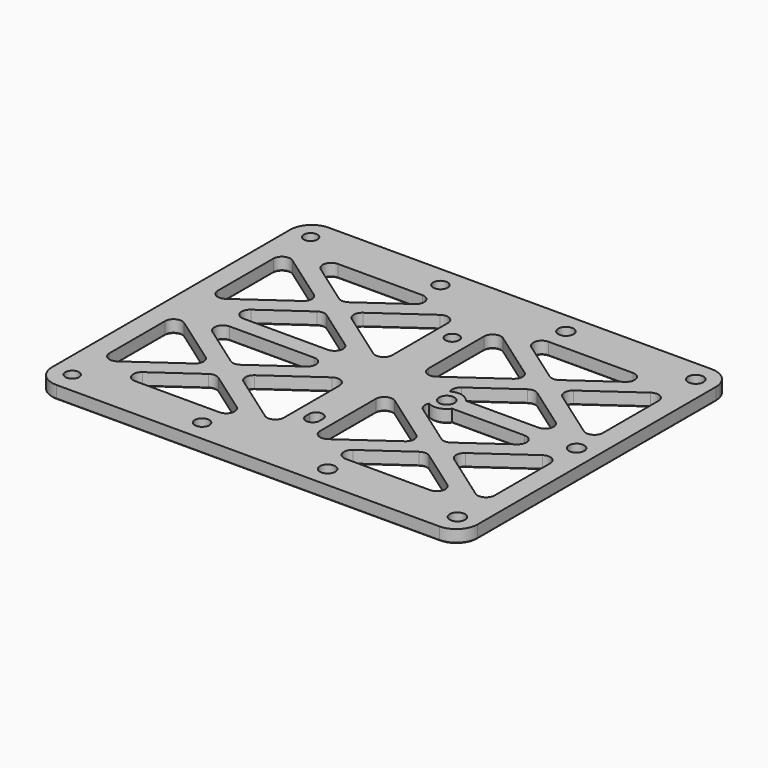
from build123d import *

# Parameters (mm, degrees)
F1_W     = 100
F1_H     = 80
F1_R     = 1.6
F1_R_2   = 1.7
F1_R_3   = 1.8
F2_DEPTH = 3
F4_DEPTH = 3.001
F5_R     = 3.5
F5_R_2   = 1.8
F6_DEPTH = 3
F7_R     = 5
F8_SIZE  = 0.2


with BuildPart() as f2:
    # F1 (on Top) → F2 (new body)
    with BuildSketch(Plane.XY):
        Rectangle(F1_W, F1_H)
        with Locations((-45.25, -35)):
            Circle(F1_R, mode=Mode.SUBTRACT)
        with Locations((-14.75, -35)):
            Circle(F1_R_2, mode=Mode.SUBTRACT)
        with Locations((14.75, -35)):
            Circle(F1_R_3, mode=Mode.SUBTRACT)
        with BuildLine():
            Line((-1.55, -21), (-1.55, -20))
            ThreePointArc((-1.55, -20), (0.05, -18.4), (1.65, -20))
            Line((1.65, -20), (1.65, -21))
            ThreePointArc((1.65, -21), (0.05, -22.6), (-1.55, -21))
        make_face(mode=Mode.SUBTRACT)
        with Locations((45.25, -35)):
            Circle(F1_R_3, mode=Mode.SUBTRACT)
        with Locations((-45.25, 35)):
            Circle(F1_R, mode=Mode.SUBTRACT)
        with Locations((-14.75, 35)):
            Circle(F1_R_2, mode=Mode.SUBTRACT)
        with Locations((14.75, 0)):
            Circle(F1_R_3, mode=Mode.SUBTRACT)
        with Locations((45.25, 0)):
            Circle(F1_R_3, mode=Mode.SUBTRACT)
        with Locations((0.05, 20)):
            Circle(F1_R, mode=Mode.SUBTRACT)
        with Locations((14.75, 35)):
            Circle(F1_R_3, mode=Mode.SUBTRACT)
        with Locations((45.25, 35)):
            Circle(F1_R_3, mode=Mode.SUBTRACT)
    extrude(amount=F2_DEPTH)

    # F3 (on Top) → F4 (cut, through all)
    with BuildSketch(Plane.XY):
        with BuildLine():
            ThreePointArc((-30.5197551181, 14.2676321857), (-29.6740215052, 15.9009322524), (-30.5197551181, 17.5342323191))
            Line((-30.5197551181, 17.5342323191), (-42.088946, 25.7102732269))
            ThreePointArc((-42.088946, 25.7102732269), (-44.1628501488, 25.8529986069), (-45.243212387, 24.0769731603))
            Line((-45.243212387, 24.0769731603), (-45.243212387, 7.7248913446))
            ThreePointArc((-45.243212387, 7.7248913446), (-44.1628501488, 5.948865898), (-42.088946, 6.0915912779))
            Line((-42.088946, 6.0915912779), (-30.5197551181, 14.2676321857))
        make_face()
        with BuildLine():
            ThreePointArc((-23.588946, 12.636173375), (-24.743212387, 13.0028733083), (-25.897478774, 12.636173375))
            Line((-25.897478774, 12.636173375), (-35.8066241584, 5.6333000667))
            ThreePointArc((-35.8066241584, 5.6333000667), (-36.5584795058, 3.3944424608), (-34.6523577714, 2))
            Line((-34.6523577714, 2), (-14.8340670026, 2))
            ThreePointArc((-14.8340670026, 2), (-12.9279452681, 3.3944424608), (-13.6798006156, 5.6333000667))
            Line((-13.6798006156, 5.6333000667), (-23.588946, 12.636173375))
        make_face()
        with BuildLine():
            ThreePointArc((-18.9666696558, 17.5342323191), (-19.8124032688, 15.9009322524), (-18.9666696558, 14.2676321857))
            Line((-18.9666696558, 14.2676321857), (-7.397478774, 6.0915912779))
            ThreePointArc((-7.397478774, 6.0915912779), (-5.3235746251, 5.9488658979), (-4.243212387, 7.7248913446))
            Line((-4.243212387, 7.7248913446), (-4.243212387, 24.0769731603))
            ThreePointArc((-4.243212387, 24.0769731603), (-5.3235746251, 25.8529986069), (-7.397478774, 25.7102732269))
            Line((-7.397478774, 25.7102732269), (-18.9666696558, 17.5342323191))
        make_face()
        with BuildLine():
            ThreePointArc((-13.6798006156, 26.1685644381), (-12.9279452681, 28.4074220441), (-14.8340670026, 29.8018645048))
            Line((-14.8340670026, 29.8018645048), (-34.6523577714, 29.8018645048))
            ThreePointArc((-34.6523577714, 29.8018645048), (-36.5584795058, 28.4074220441), (-35.8066241584, 26.1685644381))
            Line((-35.8066241584, 26.1685644381), (-25.897478774, 19.1656911299))
            ThreePointArc((-25.897478774, 19.1656911299), (-24.743212387, 18.7989911965), (-23.588946, 19.1656911299))
            Line((-23.588946, 19.1656911299), (-13.6798006156, 26.1685644381))
        make_face()
        with BuildLine():
            ThreePointArc((25.897478774, 12.636173375), (24.743212387, 13.0028733083), (23.588946, 12.636173375))
            Line((23.588946, 12.636173375), (13.6798006156, 5.6333000667))
            ThreePointArc((13.6798006156, 5.6333000667), (12.9279452681, 3.3944424608), (14.8340670026, 2))
            Line((14.8340670026, 2), (34.6523577714, 2))
            ThreePointArc((34.6523577714, 2), (36.5584795058, 3.3944424608), (35.8066241584, 5.6333000667))
            Line((35.8066241584, 5.6333000667), (25.897478774, 12.636173375))
        make_face()
        with BuildLine():
            ThreePointArc((30.5197551181, 17.5342323191), (29.6740215052, 15.9009322524), (30.5197551181, 14.2676321857))
            Line((30.5197551181, 14.2676321857), (42.088946, 6.0915912779))
            ThreePointArc((42.088946, 6.0915912779), (44.1628501488, 5.948865898), (45.243212387, 7.7248913446))
            Line((45.243212387, 7.7248913446), (45.243212387, 24.0769731603))
            ThreePointArc((45.243212387, 24.0769731603), (44.1628501488, 25.8529986069), (42.088946, 25.7102732269))
            Line((42.088946, 25.7102732269), (30.5197551181, 17.5342323191))
        make_face()
        with BuildLine():
            ThreePointArc((18.9666696558, 14.2676321857), (19.8124032688, 15.9009322524), (18.9666696558, 17.5342323191))
            Line((18.9666696558, 17.5342323191), (7.397478774, 25.7102732269))
            ThreePointArc((7.397478774, 25.7102732269), (5.3235746251, 25.8529986069), (4.243212387, 24.0769731603))
            Line((4.243212387, 24.0769731603), (4.243212387, 7.7248913446))
            ThreePointArc((4.243212387, 7.7248913446), (5.3235746251, 5.9488658979), (7.397478774, 6.0915912779))
            Line((7.397478774, 6.0915912779), (18.9666696558, 14.2676321857))
        make_face()
        with BuildLine():
            ThreePointArc((23.588946, 19.1656911299), (24.743212387, 18.7989911965), (25.897478774, 19.1656911299))
            Line((25.897478774, 19.1656911299), (35.8066241584, 26.1685644381))
            ThreePointArc((35.8066241584, 26.1685644381), (36.5584795058, 28.4074220441), (34.6523577714, 29.8018645048))
            Line((34.6523577714, 29.8018645048), (14.8340670026, 29.8018645048))
            ThreePointArc((14.8340670026, 29.8018645048), (12.9279452681, 28.4074220441), (13.6798006156, 26.1685644381))
            Line((13.6798006156, 26.1685644381), (23.588946, 19.1656911299))
        make_face()
        with BuildLine():
            Line((35.8066241584, -26.1685644381), (25.897478774, -19.1656911299))
            ThreePointArc((25.897478774, -19.1656911299), (24.743212387, -18.7989911965), (23.588946, -19.1656911299))
            Line((23.588946, -19.1656911299), (13.6798006156, -26.1685644381))
            ThreePointArc((13.6798006156, -26.1685644381), (12.9279452681, -28.4074220441), (14.8340670026, -29.8018645048))
            Line((14.8340670026, -29.8018645048), (34.6523577714, -29.8018645048))
            ThreePointArc((34.6523577714, -29.8018645048), (36.5584795058, -28.4074220441), (35.8066241584, -26.1685644381))
        make_face()
        with BuildLine():
            ThreePointArc((-18.9666696558, -14.2676321857), (-19.8124032688, -15.9009322524), (-18.9666696558, -17.5342323191))
            Line((-18.9666696558, -17.5342323191), (-7.397478774, -25.7102732269))
            ThreePointArc((-7.397478774, -25.7102732269), (-5.3235746251, -25.8529986069), (-4.243212387, -24.0769731603))
            Line((-4.243212387, -24.0769731603), (-4.243212387, -7.7248913446))
            ThreePointArc((-4.243212387, -7.7248913446), (-5.3235746251, -5.9488658979), (-7.397478774, -6.0915912779))
            Line((-7.397478774, -6.0915912779), (-18.9666696558, -14.2676321857))
        make_face()
        with BuildLine():
            Line((7.397478774, -25.7102732269), (18.9666696558, -17.5342323191))
            ThreePointArc((18.9666696558, -17.5342323191), (19.8124032688, -15.9009322524), (18.9666696558, -14.2676321857))
            Line((18.9666696558, -14.2676321857), (7.397478774, -6.0915912779))
            ThreePointArc((7.397478774, -6.0915912779), (5.3235746251, -5.9488658979), (4.243212387, -7.7248913446))
            Line((4.243212387, -7.7248913446), (4.243212387, -24.0769731603))
            ThreePointArc((4.243212387, -24.0769731603), (5.3235746251, -25.8529986069), (7.397478774, -25.7102732269))
        make_face()
        with BuildLine():
            ThreePointArc((-42.088946, -6.0915912779), (-44.1628501488, -5.948865898), (-45.243212387, -7.7248913446))
            Line((-45.243212387, -7.7248913446), (-45.243212387, -24.0769731603))
            ThreePointArc((-45.243212387, -24.0769731603), (-44.1628501488, -25.8529986069), (-42.088946, -25.7102732269))
            Line((-42.088946, -25.7102732269), (-30.5197551181, -17.5342323191))
            ThreePointArc((-30.5197551181, -17.5342323191), (-29.6740215052, -15.9009322524), (-30.5197551181, -14.2676321857))
            Line((-30.5197551181, -14.2676321857), (-42.088946, -6.0915912779))
        make_face()
        with BuildLine():
            ThreePointArc((-23.588946, -19.1656911299), (-24.743212387, -18.7989911965), (-25.897478774, -19.1656911299))
            Line((-25.897478774, -19.1656911299), (-35.8066241584, -26.1685644381))
            ThreePointArc((-35.8066241584, -26.1685644381), (-36.5584795058, -28.4074220441), (-34.6523577714, -29.8018645048))
            Line((-34.6523577714, -29.8018645048), (-14.8340670026, -29.8018645048))
            ThreePointArc((-14.8340670026, -29.8018645048), (-12.9279452681, -28.4074220441), (-13.6798006156, -26.1685644381))
            Line((-13.6798006156, -26.1685644381), (-23.588946, -19.1656911299))
        make_face()
        with BuildLine():
            ThreePointArc((-25.897478774, -12.636173375), (-24.743212387, -13.0028733083), (-23.588946, -12.636173375))
            Line((-23.588946, -12.636173375), (-13.6798006156, -5.6333000667))
            ThreePointArc((-13.6798006156, -5.6333000667), (-12.9279452681, -3.3944424608), (-14.8340670026, -2))
            Line((-14.8340670026, -2), (-34.6523577714, -2))
            ThreePointArc((-34.6523577714, -2), (-36.5584795058, -3.3944424608), (-35.8066241584, -5.6333000667))
            Line((-35.8066241584, -5.6333000667), (-25.897478774, -12.636173375))
        make_face()
        with BuildLine():
            Line((42.088946, -6.0915912779), (30.5197551181, -14.2676321857))
            ThreePointArc((30.5197551181, -14.2676321857), (29.6740215052, -15.9009322524), (30.5197551181, -17.5342323191))
            Line((30.5197551181, -17.5342323191), (42.088946, -25.7102732269))
            ThreePointArc((42.088946, -25.7102732269), (44.1628501488, -25.8529986069), (45.243212387, -24.0769731603))
            Line((45.243212387, -24.0769731603), (45.243212387, -7.7248913446))
            ThreePointArc((45.243212387, -7.7248913446), (44.1628501488, -5.948865898), (42.088946, -6.0915912779))
        make_face()
        with BuildLine():
            Line((13.6798006156, -5.6333000667), (23.588946, -12.636173375))
            ThreePointArc((23.588946, -12.636173375), (24.743212387, -13.0028733083), (25.897478774, -12.636173375))
            Line((25.897478774, -12.636173375), (35.8066241584, -5.6333000667))
            ThreePointArc((35.8066241584, -5.6333000667), (36.5584795058, -3.3944424608), (34.6523577714, -2))
            Line((34.6523577714, -2), (14.8340670026, -2))
            ThreePointArc((14.8340670026, -2), (12.9279452681, -3.3944424608), (13.6798006156, -5.6333000667))
        make_face()
    extrude(amount=F4_DEPTH, mode=Mode.SUBTRACT)

    # F5 (on Top) → F6 (join, through all)
    with BuildSketch(Plane.XY):
        with Locations((14.75, 0)):
            Circle(F5_R)
        with Locations((14.75, 0)):
            Circle(F5_R_2, mode=Mode.SUBTRACT)
    extrude(amount=F6_DEPTH)

    # F7
    f7_edges = [f2.edges().sort_by_distance(p)[0] for p in [
        (50, -40, 1.5),
        (50, 40, 1.5),
        (-50, -40, 1.5),
        (-50, 40, 1.5),
    ]]
    fillet(f7_edges, radius=F7_R)

    # F8 (call 1 of 29: OpenCascade refuses the feature's edges together)
    f8_edges = [f2.edges().sort_by_distance(p)[0] for p in [
        (50, 0, 0),
        (48.535534, -38.535534, 0),
        (48.535534, 38.535534, 0),
        (0, -40, 0),
        (0, 40, 0),
        (-48.535534, -38.535534, 0),
        (-48.535534, 38.535534, 0),
        (-50, 0, 0),
    ]]
    chamfer(f8_edges, length=F8_SIZE)

    # F8#2 (call 2 of 29)
    f8_2_edges = [f2.edges().sort_by_distance(p)[0] for p in [
        (-46.85, -35, 0),
    ]]
    chamfer(f8_2_edges, length=F8_SIZE)

    # F8#3 (call 3 of 29)
    f8_3_edges = [f2.edges().sort_by_distance(p)[0] for p in [
        (-18.634373, -22.667128, 0),
        (-12.927945, -28.407422, 0),
        (-24.743212, -29.801865, 0),
        (-36.55848, -28.407422, 0),
        (-30.852051, -22.667128, 0),
        (-24.743212, -18.798991, 0),
    ]]
    chamfer(f8_3_edges, length=F8_SIZE)

    # F8#4 (call 4 of 29)
    f8_4_edges = [f2.edges().sort_by_distance(p)[0] for p in [
        (-16.45, -35, 0),
    ]]
    chamfer(f8_4_edges, length=F8_SIZE)

    # F8#5 (call 5 of 29)
    f8_5_edges = [f2.edges().sort_by_distance(p)[0] for p in [
        (0.05, -22.6, 0),
        (-1.55, -20.5, 0),
        (0.05, -18.4, 0),
        (1.65, -20.5, 0),
    ]]
    chamfer(f8_5_edges, length=F8_SIZE)

    # F8#6 (call 6 of 29)
    f8_6_edges = [f2.edges().sort_by_distance(p)[0] for p in [
        (-36.304351, -10.179612, 0),
        (-29.674022, -15.900932, 0),
        (-36.304351, -21.622253, 0),
        (-44.16285, -25.852999, 0),
        (-45.243212, -15.900932, 0),
        (-44.16285, -5.948866, 0),
    ]]
    chamfer(f8_6_edges, length=F8_SIZE)

    # F8#7 (call 7 of 29)
    f8_7_edges = [f2.edges().sort_by_distance(p)[0] for p in [
        (-24.743212, -13.002873, 0),
        (-30.852051, -9.134737, 0),
        (-36.55848, -3.394442, 0),
        (-24.743212, -2, 0),
        (-12.927945, -3.394442, 0),
        (-18.634373, -9.134737, 0),
    ]]
    chamfer(f8_7_edges, length=F8_SIZE)

    # F8#8 (call 8 of 29)
    f8_8_edges = [f2.edges().sort_by_distance(p)[0] for p in [
        (-19.812403, -15.900932, 0),
        (-13.182074, -10.179612, 0),
        (-5.323575, -5.948866, 0),
        (-4.243212, -15.900932, 0),
        (-5.323575, -25.852999, 0),
        (-13.182074, -21.622253, 0),
    ]]
    chamfer(f8_8_edges, length=F8_SIZE)

    # F8#9 (call 9 of 29)
    f8_9_edges = [f2.edges().sort_by_distance(p)[0] for p in [
        (12.95, -35, 0),
    ]]
    chamfer(f8_9_edges, length=F8_SIZE)

    # F8#10 (call 10 of 29)
    f8_10_edges = [f2.edges().sort_by_distance(p)[0] for p in [
        (43.45, -35, 0),
    ]]
    chamfer(f8_10_edges, length=F8_SIZE)

    # F8#11 (call 11 of 29)
    f8_11_edges = [f2.edges().sort_by_distance(p)[0] for p in [
        (36.55848, -28.407422, 0),
        (24.743212, -29.801865, 0),
        (12.927945, -28.407422, 0),
        (18.634373, -22.667128, 0),
        (24.743212, -18.798991, 0),
        (30.852051, -22.667128, 0),
    ]]
    chamfer(f8_11_edges, length=F8_SIZE)

    # F8#12 (call 12 of 29)
    f8_12_edges = [f2.edges().sort_by_distance(p)[0] for p in [
        (13.182074, -21.622253, 0),
        (5.323575, -25.852999, 0),
        (4.243212, -15.900932, 0),
        (5.323575, -5.948866, 0),
        (13.182074, -10.179612, 0),
        (19.812403, -15.900932, 0),
    ]]
    chamfer(f8_12_edges, length=F8_SIZE)

    # F8#13 (call 13 of 29)
    f8_13_edges = [f2.edges().sort_by_distance(p)[0] for p in [
        (36.304351, -10.179612, 0),
        (44.16285, -5.948866, 0),
        (45.243212, -15.900932, 0),
        (44.16285, -25.852999, 0),
        (36.304351, -21.622253, 0),
        (29.674022, -15.900932, 0),
    ]]
    chamfer(f8_13_edges, length=F8_SIZE)

    # F8#14 (call 14 of 29)
    f8_14_edges = [f2.edges().sort_by_distance(p)[0] for p in [
        (-24.743212, 13.002873, 0),
        (-18.634373, 9.134737, 0),
        (-12.927945, 3.394442, 0),
        (-24.743212, 2, 0),
        (-36.55848, 3.394442, 0),
        (-30.852051, 9.134737, 0),
    ]]
    chamfer(f8_14_edges, length=F8_SIZE)

    # F8#15 (call 15 of 29)
    f8_15_edges = [f2.edges().sort_by_distance(p)[0] for p in [
        (-44.16285, 5.948866, 0),
        (-45.243212, 15.900932, 0),
        (-44.16285, 25.852999, 0),
        (-36.304351, 21.622253, 0),
        (-29.674022, 15.900932, 0),
        (-36.304351, 10.179612, 0),
    ]]
    chamfer(f8_15_edges, length=F8_SIZE)

    # F8#16 (call 16 of 29)
    f8_16_edges = [f2.edges().sort_by_distance(p)[0] for p in [
        (-19.812403, 15.900932, 0),
        (-13.182074, 21.622253, 0),
        (-5.323575, 25.852999, 0),
        (-4.243212, 15.900932, 0),
        (-5.323575, 5.948866, 0),
        (-13.182074, 10.179612, 0),
    ]]
    chamfer(f8_16_edges, length=F8_SIZE)

    # F8#17 (call 17 of 29)
    f8_17_edges = [f2.edges().sort_by_distance(p)[0] for p in [
        (-12.927945, 28.407422, 0),
        (-18.634373, 22.667128, 0),
        (-24.743212, 18.798991, 0),
        (-30.852051, 22.667128, 0),
        (-36.55848, 28.407422, 0),
        (-24.743212, 29.801865, 0),
    ]]
    chamfer(f8_17_edges, length=F8_SIZE)

    # F8#18 (call 18 of 29)
    f8_18_edges = [f2.edges().sort_by_distance(p)[0] for p in [
        (-46.85, 35, 0),
    ]]
    chamfer(f8_18_edges, length=F8_SIZE)

    # F8#19 (call 19 of 29)
    f8_19_edges = [f2.edges().sort_by_distance(p)[0] for p in [
        (-1.55, 20, 0),
    ]]
    chamfer(f8_19_edges, length=F8_SIZE)

    # F8#20 (call 20 of 29)
    f8_20_edges = [f2.edges().sort_by_distance(p)[0] for p in [
        (-16.45, 35, 0),
    ]]
    chamfer(f8_20_edges, length=F8_SIZE)

    # F8#21 (call 21 of 29)
    f8_21_edges = [f2.edges().sort_by_distance(p)[0] for p in [
        (19.812403, 15.900932, 0),
        (13.182074, 10.179612, 0),
        (5.323575, 5.948866, 0),
        (4.243212, 15.900932, 0),
        (5.323575, 25.852999, 0),
        (13.182074, 21.622253, 0),
    ]]
    chamfer(f8_21_edges, length=F8_SIZE)

    # F8#22 (call 22 of 29)
    f8_22_edges = [f2.edges().sort_by_distance(p)[0] for p in [
        (18.634373, -9.134737, 0),
        (12.88917, -4.466235, 0),
        (15.548228, -3.407761, 0),
        (26.13732, -2, 0),
        (36.55848, -3.394442, 0),
        (30.852051, -9.134737, 0),
        (24.743212, -13.002873, 0),
    ]]
    chamfer(f8_22_edges, length=F8_SIZE)

    # F8#24 (call 23 of 29)
    f8_24_edges = [f2.edges().sort_by_distance(p)[0] for p in [
        (43.45, 0, 0),
    ]]
    chamfer(f8_24_edges, length=F8_SIZE)

    # F8#25 (call 24 of 29)
    f8_25_edges = [f2.edges().sort_by_distance(p)[0] for p in [
        (29.674022, 15.900932, 0),
        (36.304351, 21.622253, 0),
        (44.16285, 25.852999, 0),
        (45.243212, 15.900932, 0),
        (44.16285, 5.948866, 0),
        (36.304351, 10.179612, 0),
    ]]
    chamfer(f8_25_edges, length=F8_SIZE)

    # F8#26 (call 25 of 29)
    f8_26_edges = [f2.edges().sort_by_distance(p)[0] for p in [
        (12.95, 35, 0),
    ]]
    chamfer(f8_26_edges, length=F8_SIZE)

    # F8#27 (call 26 of 29)
    f8_27_edges = [f2.edges().sort_by_distance(p)[0] for p in [
        (18.634373, 22.667128, 0),
        (12.927945, 28.407422, 0),
        (24.743212, 29.801865, 0),
        (36.55848, 28.407422, 0),
        (30.852051, 22.667128, 0),
        (24.743212, 18.798991, 0),
    ]]
    chamfer(f8_27_edges, length=F8_SIZE)

    # F8#28 (call 27 of 29)
    f8_28_edges = [f2.edges().sort_by_distance(p)[0] for p in [
        (43.45, 35, 0),
    ]]
    chamfer(f8_28_edges, length=F8_SIZE)

    # F8#29 (call 28 of 29)
    f8_29_edges = [f2.edges().sort_by_distance(p)[0] for p in [
        (12.95, 0, 0),
    ]]
    chamfer(f8_29_edges, length=F8_SIZE)

    # F8#23 (call 29 of 29)
    f8_23_edges = [f2.edges().sort_by_distance(p)[0] for p in [
        (26.13732, 2, 0),
        (15.548228, 3.407761, 0),
        (12.88917, 4.466235, 0),
        (18.634373, 9.134737, 0),
        (24.743212, 13.002873, 0),
        (30.852051, 9.134737, 0),
        (36.55848, 3.394442, 0),
    ]]
    chamfer(f8_23_edges, length=F8_SIZE)


solid = f2.part
